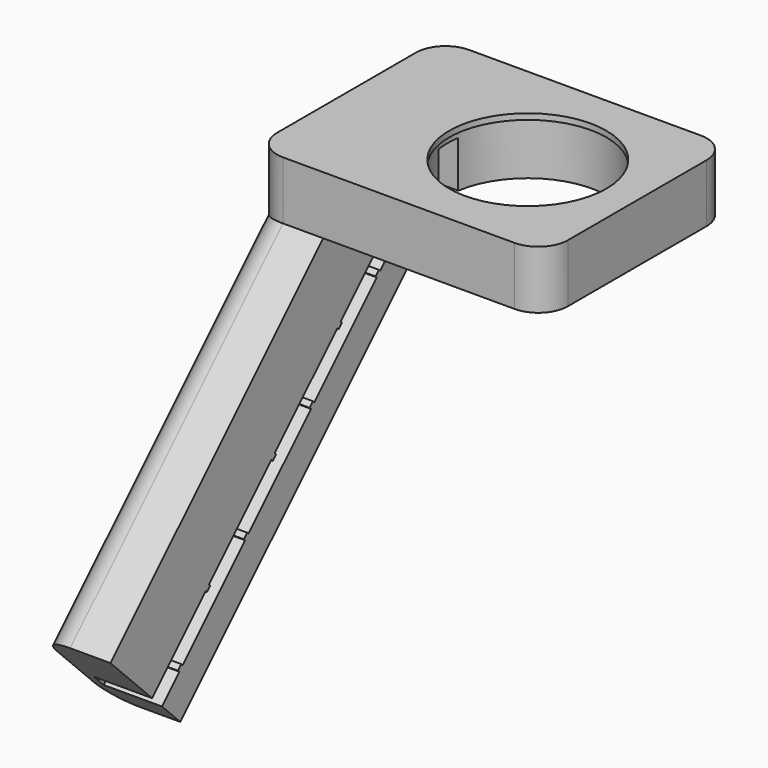
from build123d import *

# Parameters (mm, degrees)
F0_W      = 50
F0_H      = 40
F1_DEPTH  = 10
F2_R      = 13.825
F3_DEPTH  = 9
F4_R      = 13.5
F5_DEPTH  = 1
F6_W      = 4.25
F6_H      = 8
F7_DEPTH  = 17.515289916
F9_DEPTH  = 12
F10_R     = 5.08
F11_R     = 5.08
F13_DEPTH = 10
F15_DEPTH = 10
F17_DEPTH = 10


with BuildPart() as f1:
    # F0 (on Top) → F1 (new body)
    with BuildSketch(Plane.XY):
        Rectangle(F0_W, F0_H)
    extrude(amount=F1_DEPTH)

    # F2 (on face) → F3 (cut)
    with BuildSketch(Plane(origin=(0, 0, 0), x_dir=(1, 0, 0), z_dir=(0, 0, -1))):
        with Locations((6.175, 0)):
            Circle(F2_R)
    extrude(amount=-F3_DEPTH, mode=Mode.SUBTRACT)

    # F4 (on face) → F5 (cut, through all)
    with BuildSketch(Plane.XY.offset(10)):
        with Locations((6.175, 0)):
            Circle(F4_R)
    extrude(amount=-F5_DEPTH, mode=Mode.SUBTRACT)

    # F6 (on face) → F7 (cut, through all)
    with BuildSketch(Plane(origin=(-25, 0, 0), x_dir=(0, -1, 0), z_dir=(-1, 0, 0))):
        with Locations((0, 4)):
            Rectangle(F6_W, F6_H)
    extrude(amount=-F7_DEPTH, mode=Mode.SUBTRACT)

    # F8 (on face) → F9 (join)
    with BuildSketch(Plane(origin=(-25, 0, 0), x_dir=(0, -1, 0), z_dir=(-1, 0, 0))):
        Polygon((10, 10), (-20, 10), (50.7106781187, -60.7106781187), (65.7106781187, -45.7106781187), align=None)
    extrude(amount=-F9_DEPTH)

    # F10
    f10_edges = [f1.edges().sort_by_distance(p)[0] for p in [
        (25, -20, 5),
        (-25, -20, 5),
        (-25, 20, 5),
        (25, 20, 5),
    ]]
    fillet(f10_edges, radius=F10_R)

    # F11
    f11_edges = [f1.edges().sort_by_distance(p)[0] for p in [
        (-25, -42.855339, -22.855339),
        (-25, -20.355339, -30.355339),
    ]]
    fillet(f11_edges, radius=F11_R)

    # F12 (on face) → F13 (cut)
    with BuildSketch(Plane.YZ.offset(-13)):
        Polygon((2.125, 8), (-2.125, 8), (-2.125, 0), (-56.7731781187, -54.6481781187), (-54.6481781187, -56.7731781187), (2.125, 0), align=None)
    extrude(amount=-F13_DEPTH, mode=Mode.SUBTRACT)

    # F14 (on face) → F15 (join, through all)
    with BuildSketch(Plane.YZ.offset(-13)):
        Polygon((-1.8421572875, -0.2828427125), (-2.125, 0), (-2.8321067812, -0.7071067812), (-2.5492640687, -0.9899494937), align=None)
        Polygon((-16.2671356237, -14.1421356237), (-16.9742424049, -14.8492424049), (-16.6913996924, -15.1320851174), (-15.9842929113, -14.4249783362), align=None)
        Polygon((-30.4092712475, -28.2842712475), (-31.1163780286, -28.9913780286), (-30.8335353162, -29.2742207411), (-30.126428535, -28.5671139599), align=None)
        Polygon((-44.5514068712, -42.4264068712), (-45.2585136524, -43.1335136524), (-44.9756709399, -43.4163563649), (-44.2685641587, -42.7092495837), align=None)
    extrude(amount=-F15_DEPTH)

    # F16 (on face) → F17 (join, through all)
    with BuildSketch(Plane.YZ.offset(-13)):
        Polygon((-8.4852813742, -10.6102813742), (-7.7781745931, -9.9031745931), (-8.0610173055, -9.6203318806), (-8.7681240867, -10.3274386618), align=None)
        Polygon((-22.9102597104, -24.4695742855), (-22.627416998, -24.752416998), (-21.9203102168, -24.0453102168), (-22.2031529293, -23.7624675043), align=None)
        Polygon((-37.0523953342, -38.6117099092), (-36.7695526217, -38.8945526217), (-36.0624458405, -38.1874458405), (-36.345288553, -37.904603128), align=None)
        Polygon((-51.1945309579, -52.753845533), (-50.9116882454, -53.0366882454), (-50.2045814642, -52.3295814642), (-50.4874241767, -52.0467387518), align=None)
    extrude(amount=-F17_DEPTH)


solid = f1.part
